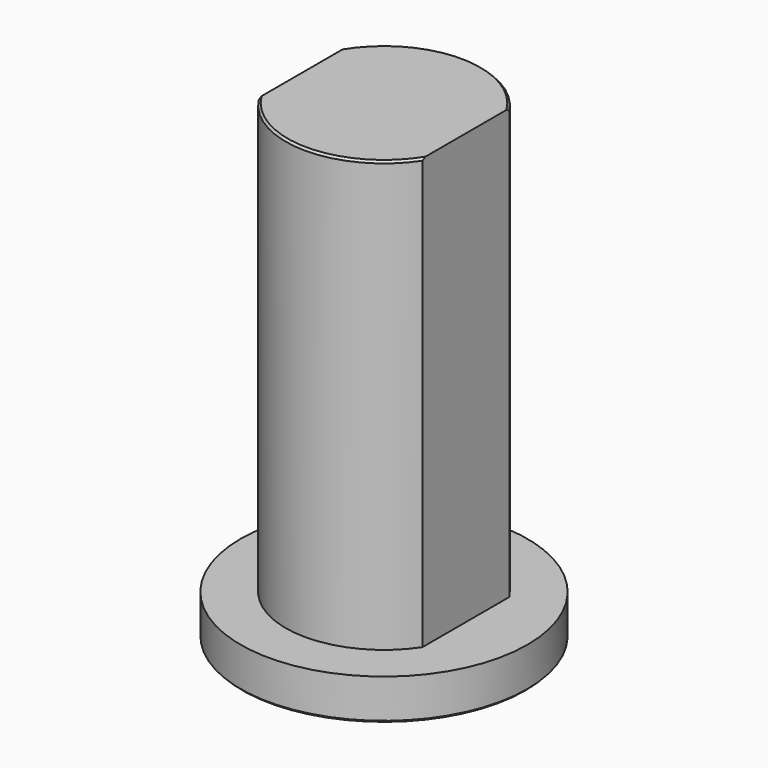
from build123d import *

# Parameters (mm, degrees)
F0_W     = 4
F0_H     = 2.6532998323
F1_DEPTH = 11.5
F0_R     = 3.5
F2_DEPTH = 1
F3_SIZE  = 0.05
F4_SIZE  = 0.05


with BuildPart() as f1:
    # F0 (on Top) → F1 (new body)
    with BuildSketch(Plane.XY):
        with BuildLine():
            Line((-2, 1.3266499161), (2, 1.3266499161))
            ThreePointArc((2, 1.3266499161), (0, 2.4), (-2, 1.3266499161))
        make_face()
        Rectangle(F0_W, F0_H)
        with BuildLine():
            ThreePointArc((-2, -1.3266499161), (0, -2.4), (2, -1.3266499161))
            Line((2, -1.3266499161), (-2, -1.3266499161))
        make_face()
    extrude(amount=F1_DEPTH)

    # F0 (on Top) → F2 (join)
    with BuildSketch(Plane.XY):
        Circle(F0_R)
        with BuildLine():
            ThreePointArc((2, 1.3266499161), (2.2978250586, 0.692820323), (2.4, 0))
            ThreePointArc((2.4, 0), (2.2978250586, -0.692820323), (2, -1.3266499161))
            ThreePointArc((2, -1.3266499161), (0, -2.4), (-2, -1.3266499161))
            ThreePointArc((-2, -1.3266499161), (-2.4, 0), (-2, 1.3266499161))
            ThreePointArc((-2, 1.3266499161), (0, 2.4), (2, 1.3266499161))
        make_face(mode=Mode.SUBTRACT)
        with BuildLine():
            ThreePointArc((2, -1.3266499161), (2.2978250586, -0.692820323), (2.4, 0))
            ThreePointArc((2.4, 0), (2.2978250586, 0.692820323), (2, 1.3266499161))
            Line((2, 1.3266499161), (2, -1.3266499161))
        make_face()
        with BuildLine():
            Line((-2, -1.3266499161), (-2, 1.3266499161))
            ThreePointArc((-2, 1.3266499161), (-2.4, 0), (-2, -1.3266499161))
        make_face()
    extrude(amount=F2_DEPTH)

    # F3
    f3_edges = [f1.edges().sort_by_distance(p)[0] for p in [
        (0, -2.4, 11.5),
        (0, 2.4, 11.5),
    ]]
    chamfer(f3_edges, length=F3_SIZE)

    # F4
    f4_edges = [f1.edges().sort_by_distance(p)[0] for p in [
        (-3.5, 0, 0),
    ]]
    chamfer(f4_edges, length=F4_SIZE)


solid = f1.part
